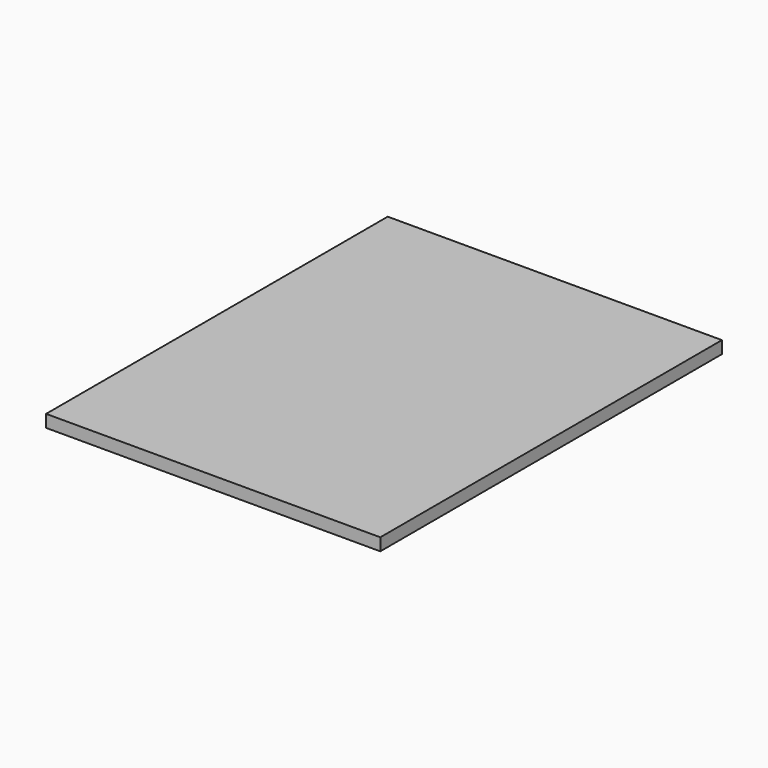
from build123d import *

# Parameters (mm, degrees)
SKETCH_W  = 54
SKETCH_H  = 69
PAD_DEPTH = 2


with BuildPart() as part:
    # Sketch → Pad (new body)
    with BuildSketch(Plane.XY):
        with Locations((57, 31.5)):
            Rectangle(SKETCH_W, SKETCH_H)
    extrude(amount=PAD_DEPTH)


solid = part.part
